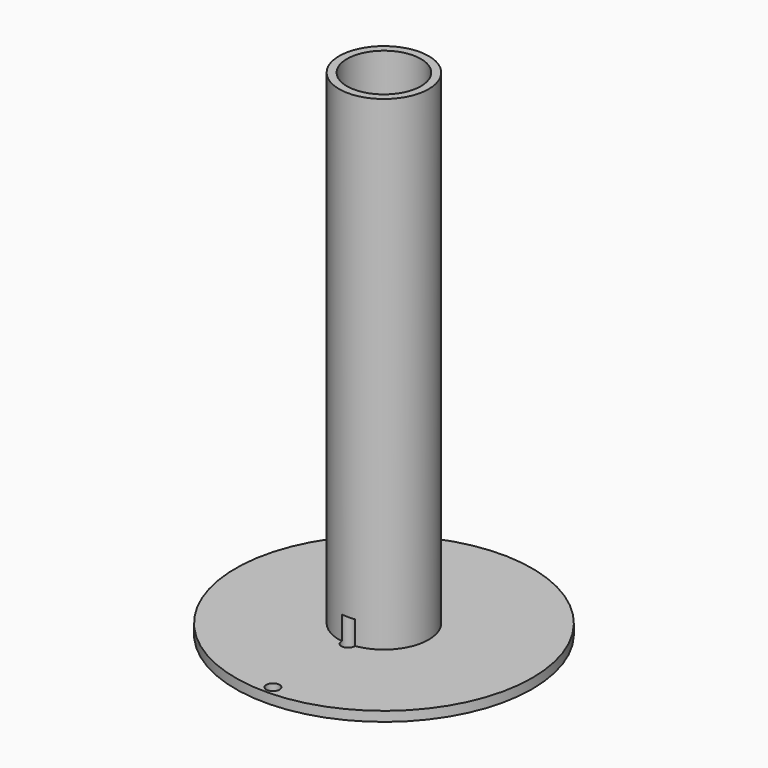
from build123d import *

# Parameters (mm, degrees)
F0_R          = 19.05
F0_R_2        = 5.75
F0_R_3        = 4.75
F1_DEPTH      = 1.25
F2_DEPTH      = 63.5
F3_R          = 0.8507078104
F4_DEPTH      = 25.4
F4_DEPTH_BACK = 3.0226


with BuildPart() as f1:
    # F0 (on Top) → F1 (new body)
    with BuildSketch(Plane.XY):
        Circle(F0_R)
        Circle(F0_R_2, mode=Mode.SUBTRACT)
        Circle(F0_R_2)
        Circle(F0_R_3, mode=Mode.SUBTRACT)
    extrude(amount=F1_DEPTH)

    # F0 (on Top) → F2 (join)
    with BuildSketch(Plane.XY):
        Circle(F0_R_2)
        Circle(F0_R_3, mode=Mode.SUBTRACT)
    extrude(amount=F2_DEPTH)

    # F3 (on face) → F4 (cut, two sides)
    with BuildSketch(Plane.XY.offset(1.25)) as f4_sk:
        with Locations((0, -5.75)):
            Circle(F3_R)
        with Locations((0, -17.8138911724)):
            Circle(F3_R)
    extrude(amount=-F4_DEPTH, mode=Mode.SUBTRACT)
    extrude(f4_sk.sketch, amount=F4_DEPTH_BACK, mode=Mode.SUBTRACT)


solid = f1.part
